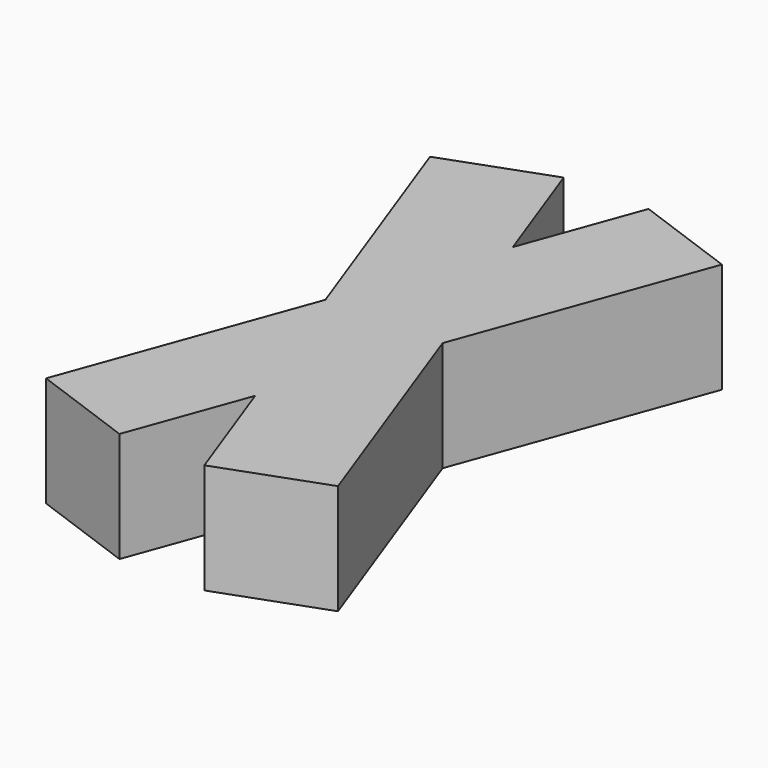
from build123d import *

# Parameters (mm, degrees)
BOX001_W               = 2
BOX001_H               = 10
BOX001_DEPTH           = 2
BOX001_PLACEMENT_ANGLE = 20
BOX_W                  = 2
BOX_H                  = 10
BOX_DEPTH              = 2
BOX_PLACEMENT_ANGLE    = 20


with BuildPart() as cub001:
    # Box001 → Box001 (new body)
    with BuildSketch(Plane.XY):
        with Locations((1, 5)):
            Rectangle(BOX001_W, BOX001_H)
    extrude(amount=BOX001_DEPTH)


with BuildPart() as cub001_1:
    # Box001 placement: moved
    add(cub001.part.moved(Location((-0.649793, 0.643557, 0))).rotate(Axis((-0.649793, 0.643557, 0), (0, 0, -1)), BOX001_PLACEMENT_ANGLE))


with BuildPart() as fusion001:
    # Box → Box (new body)
    with BuildSketch(Plane.XY):
        with Locations((1, 5)):
            Rectangle(BOX_W, BOX_H)
    extrude(amount=BOX_DEPTH)


with BuildPart() as fusion001_1:
    # Box placement: moved
    add(fusion001.part.moved(Location((2.770408, -0.040483, 0))).rotate(Axis((2.770408, -0.040483, 0), (0, 0, 1)), BOX_PLACEMENT_ANGLE))

    # Fusion: union Cub001
    add(cub001_1.part)


solid = fusion001_1.part
